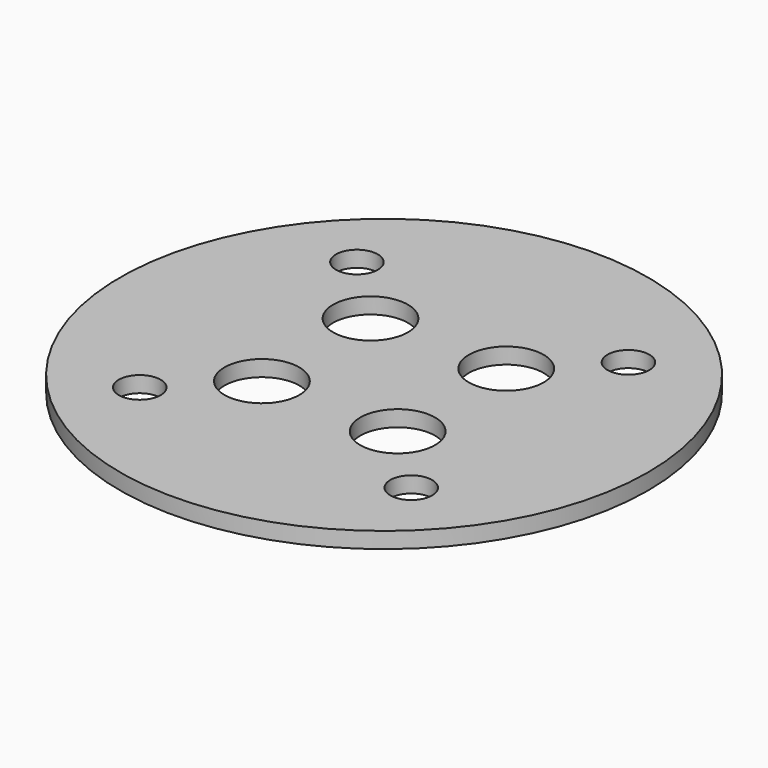
from build123d import *

# Parameters (mm, degrees)
F0_R     = 104.775
F1_DEPTH = 6.35
F2_D     = 29.718
F3_D     = 29.718
F4_D     = 29.718
F5_D     = 29.718
F6_D     = 16.6116
F7_D     = 16.6116
F8_D     = 16.6116
F9_D     = 16.6116


with BuildPart() as f1:
    # F0 (on Top) → F1 (new body)
    with BuildSketch(Plane.XY):
        Circle(F0_R)
    extrude(amount=F1_DEPTH)

    # F2 (through all)
    with Locations(Plane(origin=(0, 0, 0), x_dir=(1, 0, 0), z_dir=(0, 0, -1))):
        with Locations((-26.940768, 26.940768)):
            Hole(F2_D / 2)

    # F3 (through all)
    with Locations(Plane(origin=(0, 0, 0), x_dir=(1, 0, 0), z_dir=(0, 0, -1))):
        with Locations((26.940768, 26.940768)):
            Hole(F3_D / 2)

    # F4 (through all)
    with Locations(Plane(origin=(0, 0, 0), x_dir=(1, 0, 0), z_dir=(0, 0, -1))):
        with Locations((-26.940768, -26.940768)):
            Hole(F4_D / 2)

    # F5 (through all)
    with Locations(Plane(origin=(0, 0, 0), x_dir=(1, 0, 0), z_dir=(0, 0, -1))):
        with Locations((26.940768, -26.940768)):
            Hole(F5_D / 2)

    # F6 (through all)
    with Locations(Plane(origin=(0, 0, 0), x_dir=(1, 0, 0), z_dir=(0, 0, -1))):
        with Locations((-53.881537, 53.881537)):
            Hole(F6_D / 2)

    # F7 (through all)
    with Locations(Plane(origin=(0, 0, 0), x_dir=(1, 0, 0), z_dir=(0, 0, -1))):
        with Locations((53.881537, 53.881537)):
            Hole(F7_D / 2)

    # F8 (through all)
    with Locations(Plane(origin=(0, 0, 0), x_dir=(1, 0, 0), z_dir=(0, 0, -1))):
        with Locations((-53.881537, -53.881537)):
            Hole(F8_D / 2)

    # F9 (through all)
    with Locations(Plane(origin=(0, 0, 0), x_dir=(1, 0, 0), z_dir=(0, 0, -1))):
        with Locations((53.881537, -53.881537)):
            Hole(F9_D / 2)


solid = f1.part
